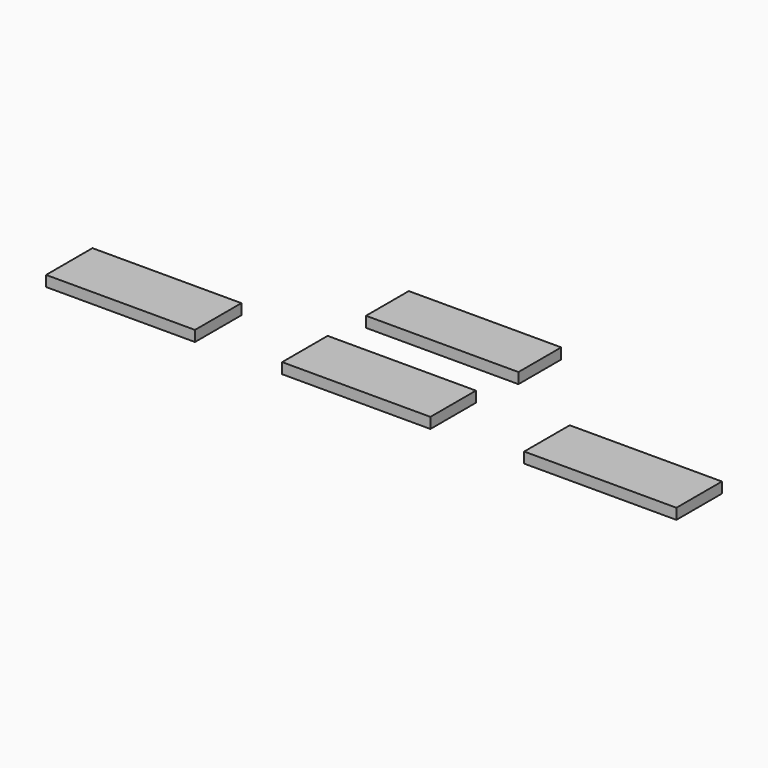
from build123d import *

# Parameters (mm, degrees)
F0_W     = 71.255765
F0_H     = 26.623579
F1_DEPTH = 5


with BuildPart() as f1:
    # F0 (on Top) → F1 (new body)
    with BuildSketch(Plane.XY):
        Polygon((-71.913898, 19.263454), (-106.767256, 19.263454), (-141.620614, 19.263454), (-141.620614, -7.881644), (-71.913898, -7.881644), align=None)
        Polygon((41.26789, 64.960077), (-30.08987, 64.960077), (-30.08987, 39.922468), (3.601708, 39.922468), (41.26789, 39.922468), align=None)
        Polygon((38.310938, 18.741935), (3.601708, 18.741935), (-31.107523, 18.741935), (-31.107523, -7.881644), (38.310938, -7.881644), align=None)
        with Locations((117.843281, 5.430145)):
            Rectangle(F0_W, F0_H)
    extrude(amount=F1_DEPTH)


solid = f1.part
